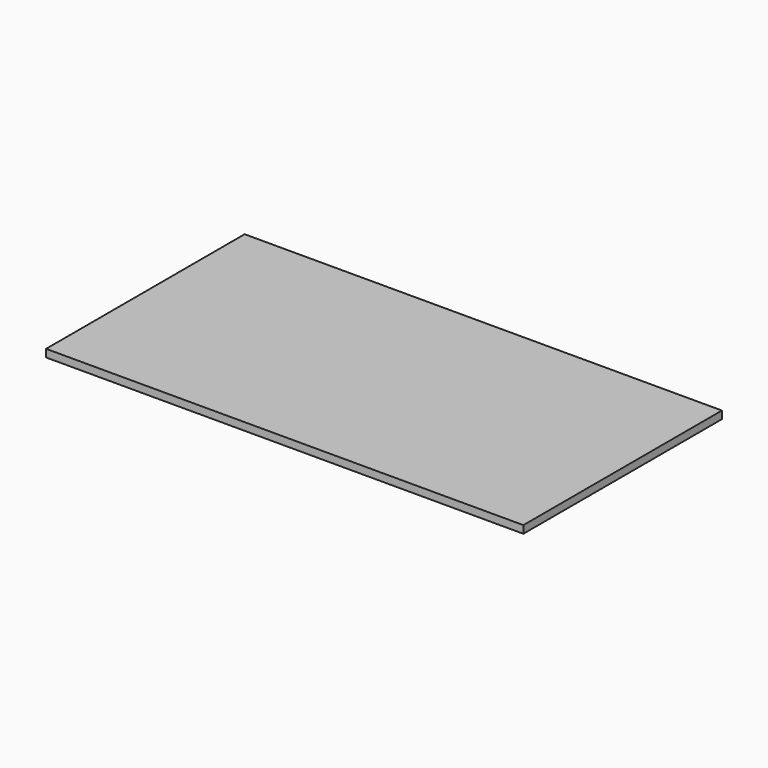
from build123d import *

# Parameters (mm, degrees)
F0_W     = 158.75
F0_H     = 82.55
F0_W_2   = 152.4
F0_H_2   = 76.2
F0_W_3   = 127
F0_H_3   = 50.8
F1_DEPTH = 2.54


with BuildPart() as f1:
    # F0 (on Top) → F1 (new body)
    with BuildSketch(Plane.XY):
        Rectangle(F0_W, F0_H)
        Rectangle(F0_W_2, F0_H_2, mode=Mode.SUBTRACT)
        Rectangle(F0_W_2, F0_H_2)
        Rectangle(F0_W_3, F0_H_3, mode=Mode.SUBTRACT)
        Rectangle(F0_W_3, F0_H_3)
    extrude(amount=F1_DEPTH)


solid = f1.part
